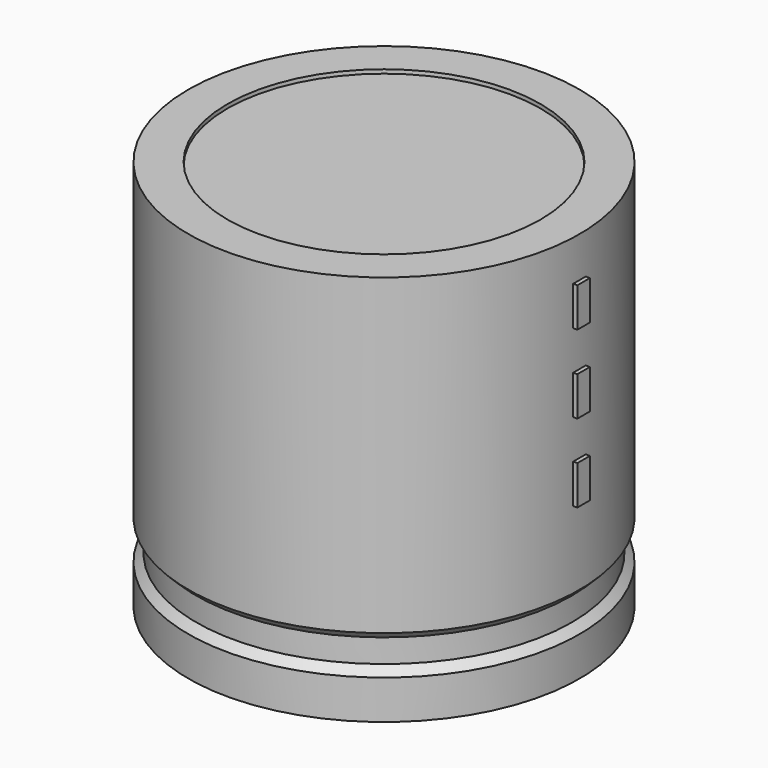
from build123d import *

# Parameters (mm, degrees)
SKETCH002_W   = 11.96
SKETCH002_H   = 25.48
SKETCH003_R   = 0.85
SKETCH003_R_2 = 1.1
PAD_DEPTH     = 5.6
SKETCH004_W   = 1.04
SKETCH004_H   = 2.6
PAD001_DEPTH  = 13.26


with BuildPart() as revolution:
    # Sketch → Revolution (revolve)
    with BuildSketch(Plane.XZ):
        Polygon((-8, 0.1), (-8, 2.7), (-7.48, 3.22), (-7.48, 4.78), (-8, 5.3), (-8, 26.1), (-5.4, 26.1), (-5.4, 0.1), align=None)
    revolve(axis=Axis((5, 0, 7.548619), (0, 0, -1)))


with BuildPart() as revolution001:
    # Sketch002 → Revolution001 (revolve)
    with BuildSketch(Plane.XZ):
        with Locations((-0.98, 13.1)):
            Rectangle(SKETCH002_W, SKETCH002_H)
    revolve(axis=Axis((5, 0, 4.680116), (0, 0, -1)))


with BuildPart() as pad:
    # Sketch003 → Pad (new body)
    with BuildSketch(Plane.XY.offset(2.6)):
        Circle(SKETCH003_R)
        with Locations((10, 0)):
            Circle(SKETCH003_R)
        with Locations((6.7, 4.75)):
            Circle(SKETCH003_R_2)
    extrude(amount=-PAD_DEPTH)


with BuildPart() as pad001:
    # Sketch004 → Pad001 (new body)
    with BuildSketch(Plane.YZ.offset(5)):
        with Locations((0, 11.7)):
            Rectangle(SKETCH004_W, SKETCH004_H)
        with Locations((0, 16.9)):
            Rectangle(SKETCH004_W, SKETCH004_H)
        with Locations((0, 22.1)):
            Rectangle(SKETCH004_W, SKETCH004_H)
    extrude(amount=PAD001_DEPTH)


solid = Compound([revolution.part, revolution001.part, pad.part, pad001.part])
